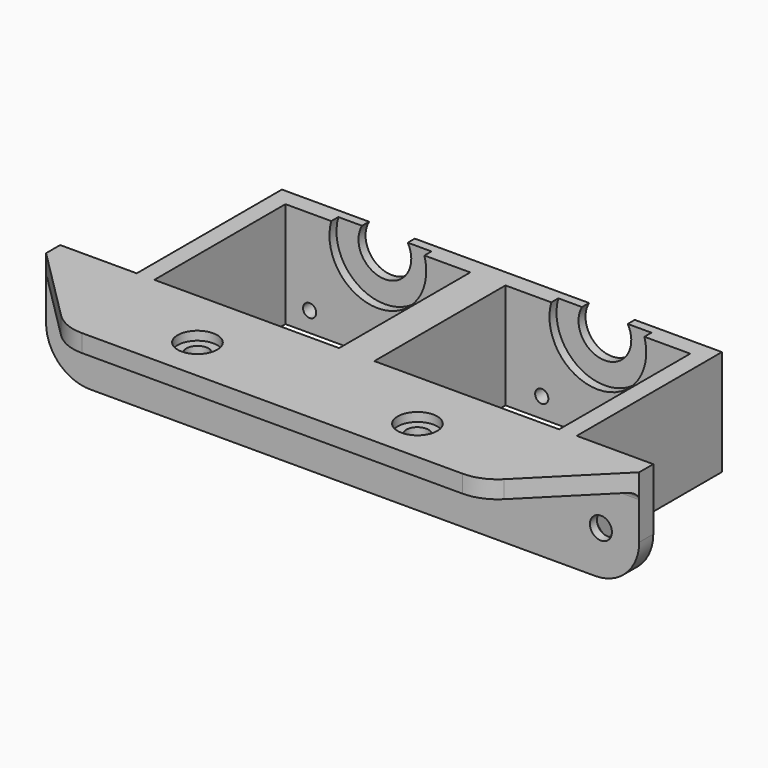
from build123d import *

# Parameters (mm, degrees)
SKETCH077_W         = 42
SKETCH077_H         = 37.25
PAD024_DEPTH        = 24
SKETCH078_R         = 11
POCKET026_DEPTH     = 2
SKETCH079_W         = 134.803292
SKETCH079_H         = 4
PAD025_DEPTH        = 20
HOLE026_D           = 5
HOLE026_DEPTH       = 23.497848
HOLE026_CBORE_D     = 9
HOLE026_CBORE_DEPTH = 2
HOLE026_TIPS_R      = 2.5
HOLE027_D           = 5
HOLE027_DEPTH       = 23.497848
HOLE027_CBORE_D     = 9
HOLE027_CBORE_DEPTH = 2
HOLE027_TIPS_R      = 2.5
CHAMFER001_SIZE     = 20
SKETCH083_R         = 1.5
SKETCH083_R_2       = 6
POCKET027_DEPTH     = 5
FILLET003_R         = 1.5
FILLET004_R         = 10
FILLET005_R         = 10


with BuildPart() as part:
    # Sketch077 → Pad024 (new body)
    with BuildSketch(Plane.XY):
        Polygon((-67.401646, 0), (67.401646, 0), (67.401646, 4), (50, 4), (50, 45.25), (-50, 45.25), (-50, 4), (-67.401646, 4), align=None)
        with Locations((25, 22.625)):
            Rectangle(SKETCH077_W, SKETCH077_H, mode=Mode.SUBTRACT)
        with Locations((-25, 22.625)):
            Rectangle(SKETCH077_W, SKETCH077_H, mode=Mode.SUBTRACT)
    extrude(amount=PAD024_DEPTH)

    # Sketch078 (on Face13 of Pad024) → Pocket026 (cut)
    with BuildSketch(Plane.XZ.offset(-41.25)):
        with Locations((-25, 21)):
            Circle(SKETCH078_R)
        with Locations((25, 21)):
            Circle(SKETCH078_R)
    extrude(amount=-POCKET026_DEPTH, mode=Mode.SUBTRACT)

    # Sketch079 → Pad025 (join)
    with BuildSketch(Plane.XZ):
        with Locations((0, 22)):
            Rectangle(SKETCH079_W, SKETCH079_H)
    extrude(amount=PAD025_DEPTH)

    # Hole026
    with Locations(Plane(origin=(0, 4, 0), x_dir=(-1, 0, 0), z_dir=(0, 1, 0))):
        with Locations((58.700823, 10), (-58.700823, 10)):
            CounterBoreHole(HOLE026_D / 2, HOLE026_CBORE_D / 2, HOLE026_CBORE_DEPTH, depth=HOLE026_DEPTH)

    # Hole026 tips → Hole026 tip 1 section 0
    with BuildSketch(Plane(origin=(0, -19.497848, 0), x_dir=(-1, 0, 0), z_dir=(0, 1, 0)), mode=Mode.PRIVATE) as hole026_tip_1_s0:
        with Locations((58.700823, 10)):
            Circle(HOLE026_TIPS_R)
    loft([hole026_tip_1_s0.sketch, Vertex(-58.700823, -21, 10)], mode=Mode.SUBTRACT)

    # Hole026 tips → Hole026 tip 2 section 0
    with BuildSketch(Plane(origin=(0, -19.497848, 0), x_dir=(-1, 0, 0), z_dir=(0, 1, 0)), mode=Mode.PRIVATE) as hole026_tip_2_s0:
        with Locations((-58.700823, 10)):
            Circle(HOLE026_TIPS_R)
    loft([hole026_tip_2_s0.sketch, Vertex(58.700823, -21, 10)], mode=Mode.SUBTRACT)

    # Hole027
    with Locations(Plane.XY.offset(24)):
        with Locations((-25, -10), (25, -10)):
            CounterBoreHole(HOLE027_D / 2, HOLE027_CBORE_D / 2, HOLE027_CBORE_DEPTH, depth=HOLE027_DEPTH)

    # Hole027 tips → Hole027 tip 1 section 0
    with BuildSketch(Plane.XY.offset(0.502152), mode=Mode.PRIVATE) as hole027_tip_1_s0:
        with Locations((-25, -10)):
            Circle(HOLE027_TIPS_R)
    loft([hole027_tip_1_s0.sketch, Vertex(-25, -10, -1)], mode=Mode.SUBTRACT)

    # Hole027 tips → Hole027 tip 2 section 0
    with BuildSketch(Plane.XY.offset(0.502152), mode=Mode.PRIVATE) as hole027_tip_2_s0:
        with Locations((25, -10)):
            Circle(HOLE027_TIPS_R)
    loft([hole027_tip_2_s0.sketch, Vertex(25, -10, -1)], mode=Mode.SUBTRACT)

    # Chamfer001
    chamfer001_edges = [part.edges().sort_by_distance(p)[0] for p in [
        (-67.401646, -20, 22),
        (67.401646, -20, 22),
    ]]
    chamfer(chamfer001_edges, length=CHAMFER001_SIZE)

    # Sketch083 (on Face12 of Chamfer001) → Pocket027 (cut)
    with BuildSketch(Plane(origin=(0, 45.25, 0), x_dir=(-1, 0, 0), z_dir=(0, 1, 0))):
        with Locations((-43.253433, 4.5)):
            Circle(SKETCH083_R)
        with Locations((-12.253433, 4.5)):
            Circle(SKETCH083_R)
        with Locations((9.5, 4.5)):
            Circle(SKETCH083_R)
        with Locations((40.5, 4.5)):
            Circle(SKETCH083_R)
        with Locations((-25, 21)):
            Circle(SKETCH083_R_2)
        with Locations((25, 21)):
            Circle(SKETCH083_R_2)
    extrude(amount=-POCKET027_DEPTH, mode=Mode.SUBTRACT)

    # Fillet003
    fillet003_edges = [part.edges().sort_by_distance(p)[0] for p in [
        (0, 0, 20),
    ]]
    fillet(fillet003_edges, radius=FILLET003_R)

    # Fillet004
    fillet004_edges = [part.edges().sort_by_distance(p)[0] for p in [
        (-67.401646, 2, 0),
        (67.401646, 2, 0),
    ]]
    fillet(fillet004_edges, radius=FILLET004_R)

    # Fillet005
    fillet005_edges = [part.edges().sort_by_distance(p)[0] for p in [
        (-47.401646, -20, 22),
        (47.401646, -20, 22),
    ]]
    fillet(fillet005_edges, radius=FILLET005_R)


solid = part.part
